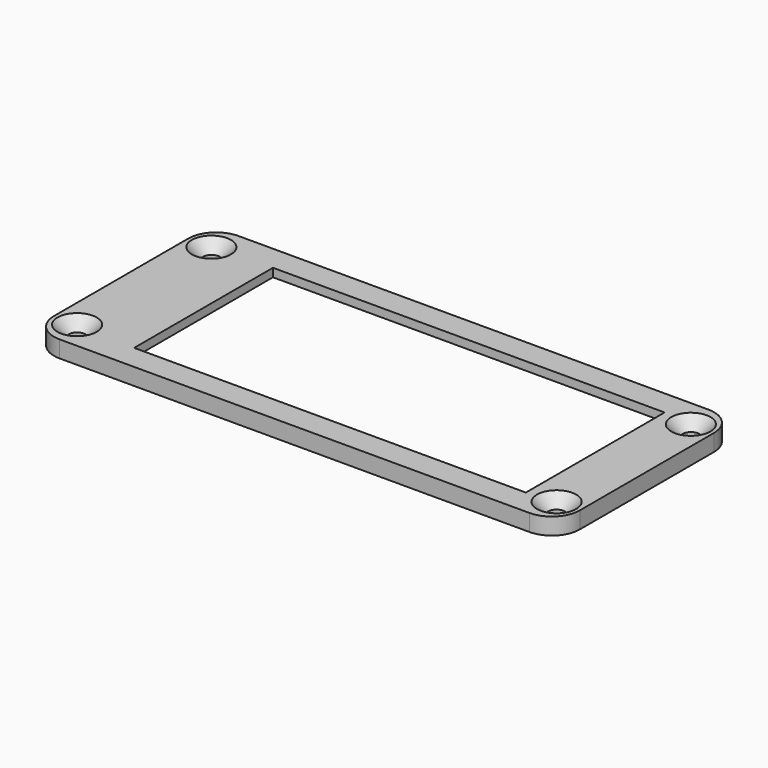
from build123d import *

# Parameters (mm, degrees)
SKETCH001_W   = 94
SKETCH001_H   = 40
SKETCH001_R   = 1.5
SKETCH001_W_2 = 70
SKETCH001_H_2 = 31
PAD001_DEPTH  = 3
SKETCH002_W   = 79.5
SKETCH002_H   = 37.5
POCKET_DEPTH  = 1.5
FILLET_R      = 5
CHAMFER_SIZE  = 2


with BuildPart() as part:
    # Sketch001 → Pad001 (new body)
    with BuildSketch(Plane.XY):
        Rectangle(SKETCH001_W, SKETCH001_H)
        with Locations((-42.85, 15)):
            Circle(SKETCH001_R, mode=Mode.SUBTRACT)
        with Locations((-42.85, -15)):
            Circle(SKETCH001_R, mode=Mode.SUBTRACT)
        with Locations((42.85, 15)):
            Circle(SKETCH001_R, mode=Mode.SUBTRACT)
        with Locations((42.85, -15)):
            Circle(SKETCH001_R, mode=Mode.SUBTRACT)
        with Locations((2.75, 0)):
            Rectangle(SKETCH001_W_2, SKETCH001_H_2, mode=Mode.SUBTRACT)
    extrude(amount=PAD001_DEPTH)

    # Sketch002 (on Face13 of Pad001) → Pocket (cut)
    with BuildSketch(Plane(origin=(0, 0, 0), x_dir=(1, 0, 0), z_dir=(0, 0, -1))):
        Rectangle(SKETCH002_W, SKETCH002_H)
    extrude(amount=-POCKET_DEPTH, mode=Mode.SUBTRACT)

    # Fillet
    fillet_edges = [part.edges().sort_by_distance(p)[0] for p in [
        (-47, -20, 1.5),
        (-47, 20, 1.5),
        (47, -20, 1.5),
        (47, 20, 1.5),
    ]]
    fillet(fillet_edges, radius=FILLET_R)

    # Chamfer
    chamfer_edges = [part.edges().sort_by_distance(p)[0] for p in [
        (41.35, -15, 3),
        (41.35, 15, 3),
        (-44.35, -15, 3),
        (-44.35, 15, 3),
    ]]
    chamfer(chamfer_edges, length=CHAMFER_SIZE)


with BuildPart() as part_1:
    # Body001 placement: moved
    add(part.part.moved(Location((0, 5, 2))))


solid = part_1.part
